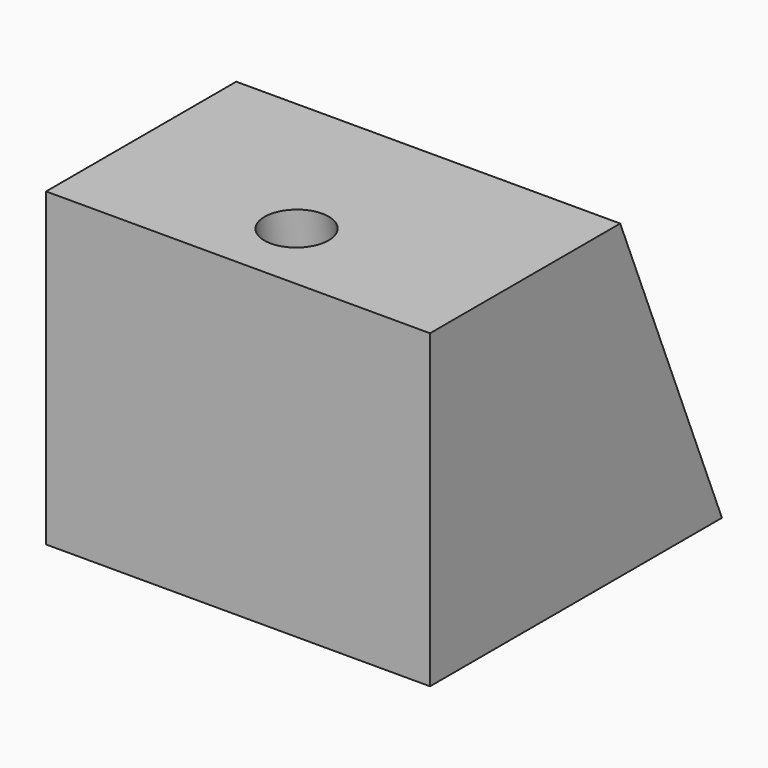
from build123d import *

# Parameters (mm, degrees)
F1_DEPTH      = 21
F6_DEPTH      = 11.6432544745
F6_DEPTH_BACK = 13.1294997266
F7_W          = 22
F7_H          = 5
F8_DEPTH      = 21.001


with BuildPart() as f1:
    # F0 (on Right) → F1 (new body)
    with BuildSketch(Plane.YZ):
        Polygon((0, 22), (0, 0), (22, 0), (13, 22), align=None)
    extrude(amount=F1_DEPTH)

    # F5 (on line) → F6 (cut, two sides)
    with BuildSketch(Plane(origin=(0, -1.3722109533, 10.0628803245), x_dir=(1, 0, 0), z_dir=(0, 0.1351132047, -0.990830168))) as f6_sk:
        with BuildLine():
            ThreePointArc((8.75, -6.9358111763), (10.5, -8.6858111763), (12.25, -6.9358111763))
            ThreePointArc((12.25, -6.9358111763), (10.5, -5.1858111763), (8.75, -6.9358111763))
        make_face()
    extrude(amount=-F6_DEPTH, mode=Mode.SUBTRACT)
    extrude(f6_sk.sketch, amount=F6_DEPTH_BACK, mode=Mode.SUBTRACT)

    # F7 (on Right) → F8 (cut, through all)
    with BuildSketch(Plane.YZ):
        with Locations((11, 2.5)):
            Rectangle(F7_W, F7_H)
    extrude(amount=F8_DEPTH, mode=Mode.SUBTRACT)


with BuildPart() as f1_1:
    # F9: moved
    add(f1.part.moved(Location((0, 0, -5))))


solid = f1_1.part
